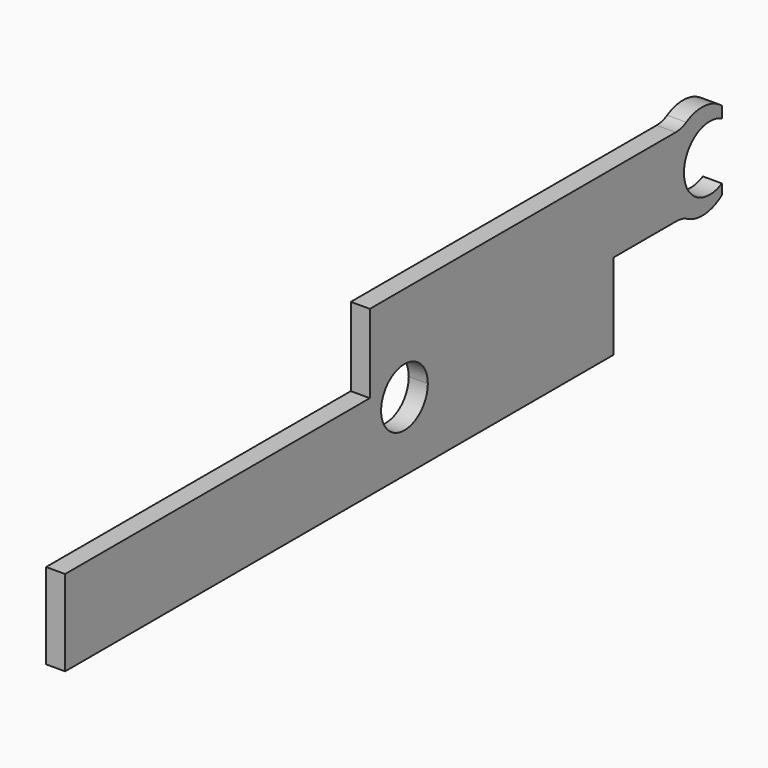
from build123d import *

# Parameters (mm, degrees)
F1_DEPTH = 3.175


with BuildPart() as f1:
    # F0 (on Right) → F1 (new body)
    with BuildSketch(Plane.YZ):
        with BuildLine():
            Line((6.35, 20.248728), (6.35, 7.14375))
            Line((6.35, 7.14375), (9.573824, 7.14375))
            ThreePointArc((9.573824, 7.14375), (13.562914, 9.223739), (17.552005, 7.14375))
            Line((17.552005, 7.14375), (57.15, 7.14375))
            Line((57.15, 7.14375), (57.15, 20.248728))
            Line((57.15, 20.248728), (6.35, 20.248728))
        make_face()
        with BuildLine():
            Line((9.573824, 7.14375), (6.35, 7.14375))
            Line((6.35, 7.14375), (0, 7.14375))
            Line((0, 7.14375), (-57.15, 7.14375))
            Line((-57.15, 7.14375), (-57.15, -7.14375))
            Line((-57.15, -7.14375), (57.15, -7.14375))
            Line((57.15, -7.14375), (57.15, 7.14375))
            Line((57.15, 7.14375), (17.552005, 7.14375))
            ThreePointArc((17.552005, 7.14375), (18.203934, 5.81841), (18.428132, 4.358521))
            ThreePointArc((18.428132, 4.358521), (12.103026, -0.282499), (9.573824, 7.14375))
        make_face()
        with BuildLine():
            Line((70.083923, 20.248728), (57.15, 20.248728))
            Line((57.15, 20.248728), (57.15, 7.14375))
            Line((57.15, 7.14375), (70.312668, 7.14375))
            ThreePointArc((70.312668, 7.14375), (71.42139, 7.002421), (72.459202, 6.587472))
            ThreePointArc((72.459202, 6.587472), (76.172758, 5.775212), (79.719216, 7.14375))
            Line((79.719216, 7.14375), (79.719216, 8.832574))
            ThreePointArc((79.719216, 8.832574), (71.806328, 13.595074), (79.719216, 18.357574))
            Line((79.719216, 18.357574), (79.719216, 20.248728))
            ThreePointArc((79.719216, 20.248728), (76.092257, 21.691491), (72.283952, 20.835218))
            ThreePointArc((72.283952, 20.835218), (71.222354, 20.397867), (70.083923, 20.248728))
        make_face()
    extrude(amount=F1_DEPTH)


solid = f1.part
